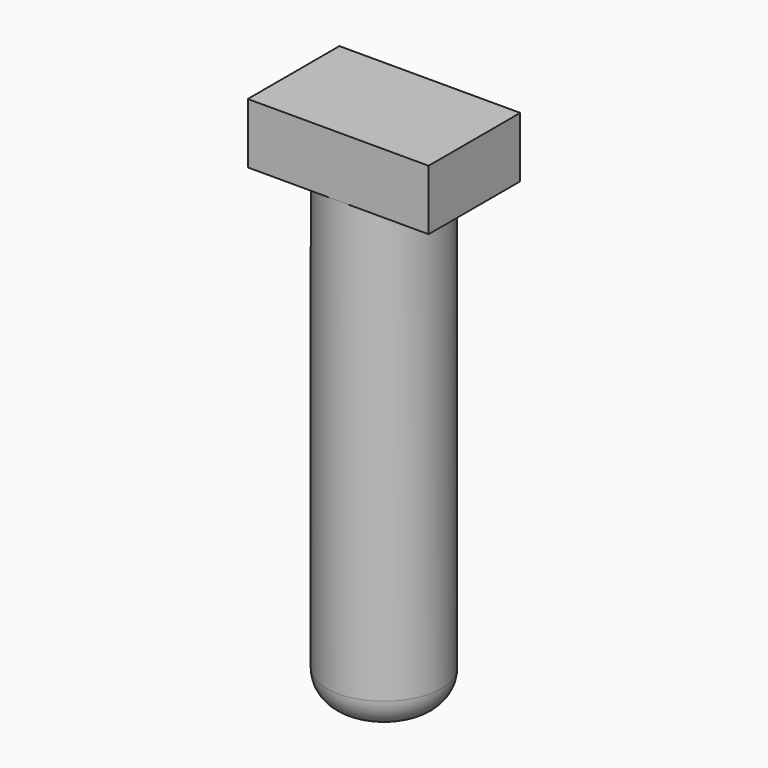
from build123d import *

# Parameters (mm, degrees)
SKETCH027_W  = 6
SKETCH027_H  = 3.8
PAD010_DEPTH = 2
SKETCH031_R  = 1.9
PAD014_DEPTH = 15.4
FILLET010_R  = 1


with BuildPart() as part:
    # Sketch027 → Pad010 (new body)
    with BuildSketch(Plane.XY.offset(13.4)):
        with Locations((-29.7, -30.5)):
            Rectangle(SKETCH027_W, SKETCH027_H)
    extrude(amount=PAD010_DEPTH)

    # Sketch031 (on Face5 of Pad010) → Pad014 (join)
    with BuildSketch(Plane(origin=(0, 0, 13.4), x_dir=(1, 0, 0), z_dir=(0, 0, -1))):
        with Locations((-29.7, 30.5)):
            Circle(SKETCH031_R)
    extrude(amount=PAD014_DEPTH)

    # Fillet010
    fillet010_edges = [part.edges().sort_by_distance(p)[0] for p in [
        (-31.6, -30.5, -2),
    ]]
    fillet(fillet010_edges, radius=FILLET010_R)


solid = part.part
